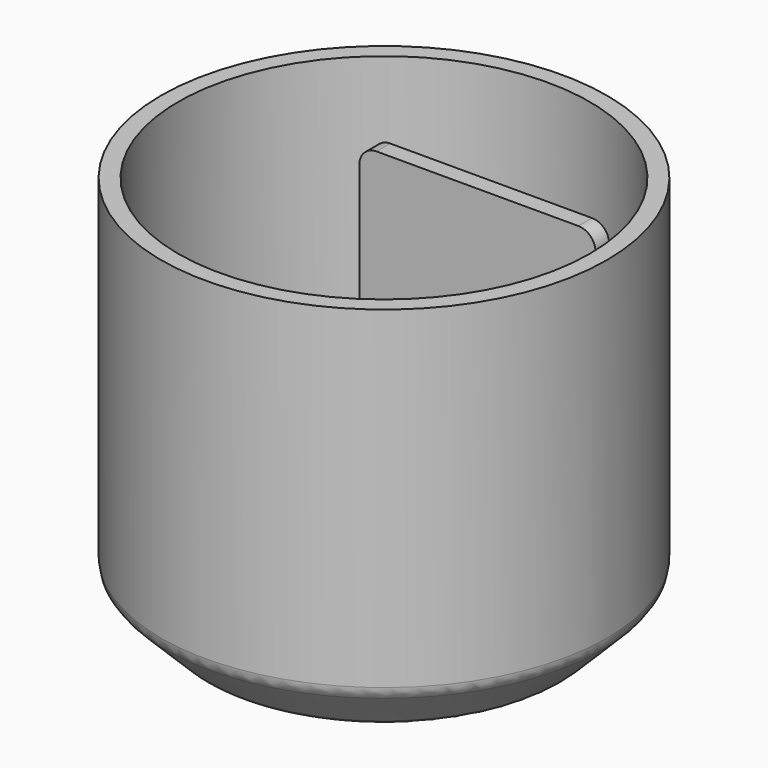
from build123d import *

# Parameters (mm, degrees)
F0_R     = 33.04
F1_DEPTH = 58
F2_SIZE  = 7.62
F3_T     = -2.54
F4_R     = 2.54
F5_R     = 6
F5_W     = 10.6
F5_H     = 5
F6_DEPTH = 2.54
F7_W     = 35
F7_H     = 2.54
F8_DEPTH = 47
F9_R     = 2.54


with BuildPart() as f1:
    # F0 (on Top) → F1 (new body)
    with BuildSketch(Plane.XY):
        Circle(F0_R)
    extrude(amount=F1_DEPTH)

    # F2
    f2_edges = [f1.edges().sort_by_distance(p)[0] for p in [
        (-33.04, 0, 0),
    ]]
    chamfer(f2_edges, length=F2_SIZE)

    # F3
    f3_openings = [f1.faces().sort_by_distance(p)[0] for p in [
        (0, 0, 58),
    ]]
    offset(amount=F3_T, openings=f3_openings)

    # F4
    f4_edges = [f1.edges().sort_by_distance(p)[0] for p in [
        (-33.04, 0, 7.62),
        (-25.42, 0, 0),
    ]]
    fillet(f4_edges, radius=F4_R)

    # F5 (on face) → F6 (cut, through all)
    with BuildSketch(Plane(origin=(0, 0, 0), x_dir=(1, 0, 0), z_dir=(0, 0, -1))):
        with Locations((0, 7.62)):
            Circle(F5_R)
        with Locations((0, -6.35)):
            Rectangle(F5_W, F5_H)
    extrude(amount=-F6_DEPTH, mode=Mode.SUBTRACT)

    # F7 (on face) → F8 (join)
    with BuildSketch(Plane.XY.offset(2.54)):
        with Locations((0, 18.58)):
            Rectangle(F7_W, F7_H)
    extrude(amount=F8_DEPTH)

    # F9
    f9_edges = [f1.edges().sort_by_distance(p)[0] for p in [
        (-17.5, 18.58, 49.54),
        (17.5, 18.58, 49.54),
    ]]
    fillet(f9_edges, radius=F9_R)


solid = f1.part
